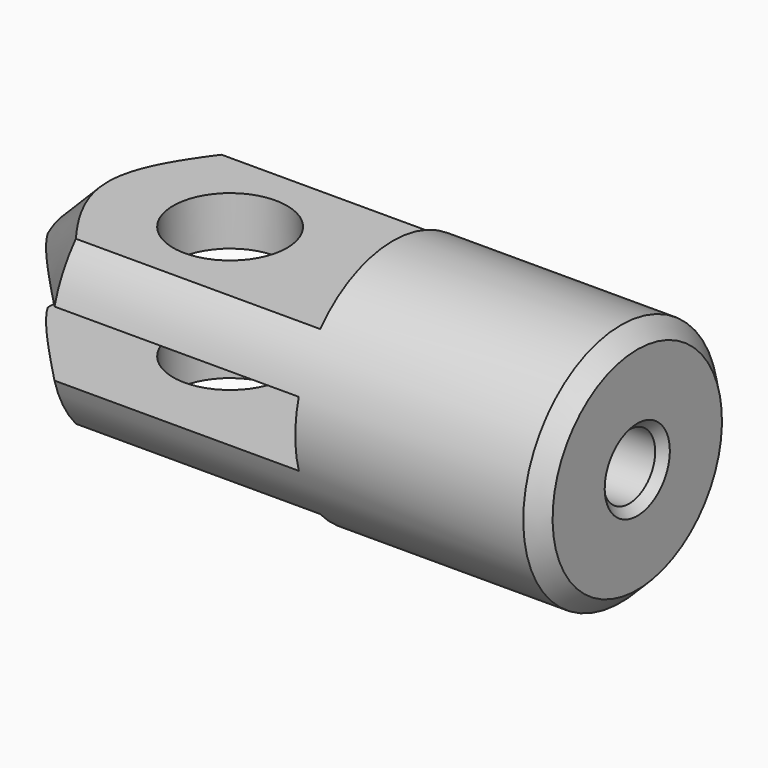
from build123d import *

# Parameters (mm, degrees)
F3_SIZE  = 10
F4_DEPTH = 25
F5_R     = 7
F6_DEPTH = 25
F7_SIZE  = 2
F8_SIZE  = 1


with BuildPart() as f1:
    # F0 (on Front) → F1 (revolve)
    with BuildSketch(Plane.XZ):
        Polygon((-50, 0), (0, 0), (0, 4), (20, 4), (20, 15), (-50, 15), align=None)
    revolve(axis=Axis((-25, 0, 0), (1, 0, 0)))

    # F3
    f3_edges = [f1.edges().sort_by_distance(p)[0] for p in [
        (-50, 0, -15),
    ]]
    chamfer(f3_edges, length=F3_SIZE)

    # F2 (on Front) → F4 (cut, symmetric)
    with BuildSketch(Plane.XZ):
        Polygon((-60.617507, 4), (-60.617507, 0), (-60.617507, -4), (-60.617507, -15), (-10, -15), (-10, -10), (-55.020042, -10), (-55.020042, -4), (-10, -4), (-10, -2), (-10, 2), (-10, 4), (-55.020042, 4), (-55.020042, 10), (-10, 10), (-10, 15), (-60.617507, 15), align=None)
    extrude(amount=F4_DEPTH, both=True, mode=Mode.SUBTRACT)

    # F5 (on Top) → F6 (cut, symmetric)
    with BuildSketch(Plane.XY):
        with Locations((-30, 0)):
            Circle(F5_R)
    extrude(amount=F6_DEPTH, both=True, mode=Mode.SUBTRACT)

    # F7
    f7_edges = [f1.edges().sort_by_distance(p)[0] for p in [
        (20, 0, -15),
    ]]
    chamfer(f7_edges, length=F7_SIZE)

    # F8
    f8_edges = [f1.edges().sort_by_distance(p)[0] for p in [
        (20, 0, -4),
    ]]
    chamfer(f8_edges, length=F8_SIZE)


solid = f1.part
